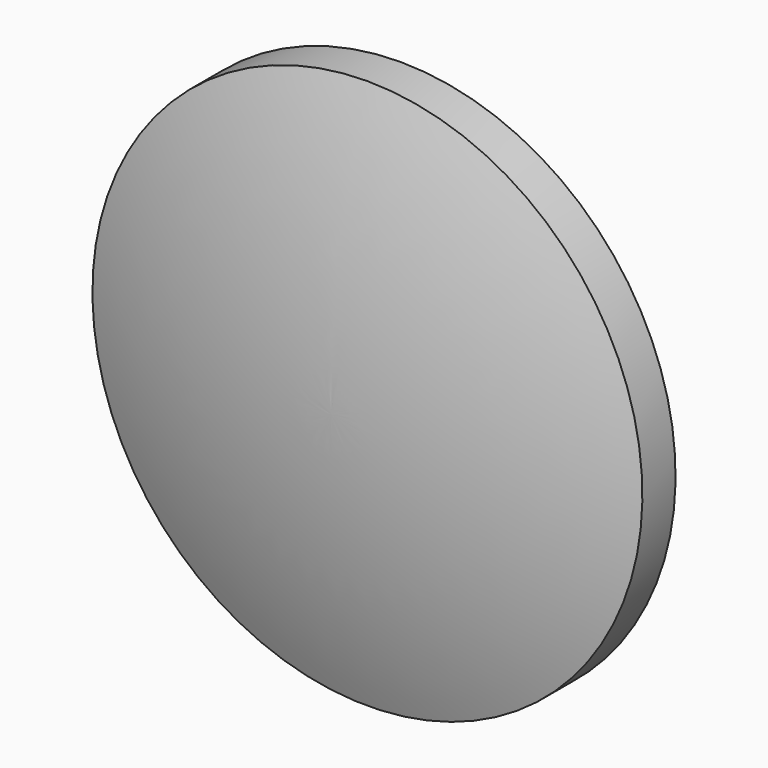
from build123d import *


with BuildPart() as f1:
    # F0 (on Right) → F1 (revolve)
    with BuildSketch(Plane.YZ):
        with BuildLine():
            Line((1, 13.25), (-1, 13.25))
            ThreePointArc((-1, 13.25), (-2.627636, 6.713664), (-3.175, 0))
            Line((-3.175, 0), (3.175, 0))
            ThreePointArc((3.175, 0), (2.627636, 6.713664), (1, 13.25))
        make_face()
    revolve(axis=Axis((0, 0, 0), (0, 1, 0)))


solid = f1.part
